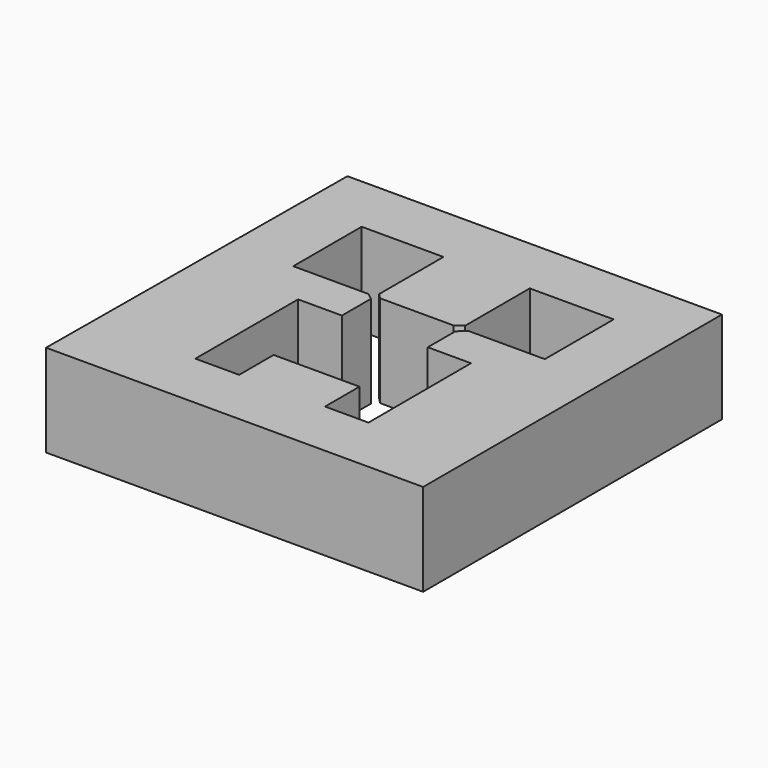
from build123d import *

# Parameters (mm, degrees)
F1_DEPTH = 25.4


with BuildPart() as f1:
    # F0 (on Top) → F1 (new body)
    with BuildSketch(Plane.XY):
        Polygon((-56.47104, 47.499779), (-57.179812, -55.272136), (46.578944, -55.272136), (46.578944, 47.499779), align=None)
        Polygon((6.74546, 8.964016), (6.737308, 31.202156), (29.835206, 31.202156), (29.835206, 7.513014), (8.684131, 7.513014), (6.744514, 5.572886), (6.737308, -3.886178), (18.632091, -3.886178), (18.691434, -39.22059), (6.737308, -39.22059), (6.737308, -27.367255), (-16.882235, -27.367255), (-16.882235, -39.22059), (-28.946126, -39.22059), (-28.946126, -3.886178), (-16.882235, -3.886178), (-16.882235, 6.117125), (-18.680127, 7.513014), (-39.392911, 7.513014), (-39.392911, 31.043341), (-16.882235, 31.043341), (-16.882235, 8.942837), (-15.515331, 7.513014), (4.728135, 7.513014), align=None, mode=Mode.SUBTRACT)
    extrude(amount=F1_DEPTH)


solid = f1.part
